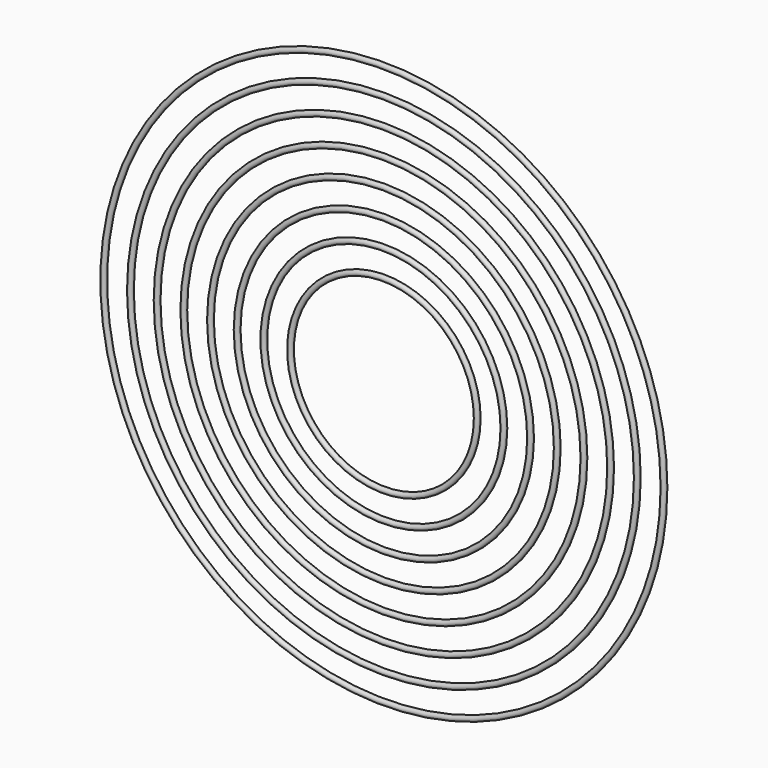
from build123d import *

# Parameters (mm, degrees)
TORUS006_R          = 2.54
TORUS006_ROLL_ANGLE = 90
TORUS005_R          = 2.54
TORUS005_ROLL_ANGLE = 90
TORUS003_R          = 2.54
TORUS003_ROLL_ANGLE = 90
TORUS001_R          = 2.54
TORUS001_ROLL_ANGLE = 90
TORUS_R             = 2.54
TORUS_ROLL_ANGLE    = 90
TORUS002_R          = 2.54
TORUS002_ROLL_ANGLE = 90
TORUS004_R          = 2.54
TORUS004_ROLL_ANGLE = 90
TORUS007_R          = 2.54
TORUS007_ROLL_ANGLE = 90


with BuildPart() as torus006:
    # Torus006 → Torus006 (revolve)
    with BuildSketch(Plane.XZ):
        with Locations((190.5, 0)):
            Circle(TORUS006_R)
    revolve(axis=Axis((0, 0, 0), (0, 0, 1)))


with BuildPart() as torus006_1:
    # Torus006 roll: moved
    add(torus006.part.rotate(Axis((0, 0, 0), (1, 0, 0)), TORUS006_ROLL_ANGLE))


with BuildPart() as torus006_2:
    # Torus006 placement: moved
    add(torus006_1.part)


with BuildPart() as torus005:
    # Torus005 → Torus005 (revolve)
    with BuildSketch(Plane.XZ):
        with Locations((139.7, 0)):
            Circle(TORUS005_R)
    revolve(axis=Axis((0, 0, 0), (0, 0, 1)))


with BuildPart() as torus005_1:
    # Torus005 roll: moved
    add(torus005.part.rotate(Axis((0, 0, 0), (1, 0, 0)), TORUS005_ROLL_ANGLE))


with BuildPart() as torus005_2:
    # Torus005 placement: moved
    add(torus005_1.part)


with BuildPart() as torus003:
    # Torus003 → Torus003 (revolve)
    with BuildSketch(Plane.XZ):
        with Locations((165.1, 0)):
            Circle(TORUS003_R)
    revolve(axis=Axis((0, 0, 0), (0, 0, 1)))


with BuildPart() as torus003_1:
    # Torus003 roll: moved
    add(torus003.part.rotate(Axis((0, 0, 0), (1, 0, 0)), TORUS003_ROLL_ANGLE))


with BuildPart() as torus003_2:
    # Torus003 placement: moved
    add(torus003_1.part)


with BuildPart() as torus001:
    # Torus001 → Torus001 (revolve)
    with BuildSketch(Plane.XZ):
        with Locations((241.3, 0)):
            Circle(TORUS001_R)
    revolve(axis=Axis((0, 0, 0), (0, 0, 1)))


with BuildPart() as torus001_1:
    # Torus001 roll: moved
    add(torus001.part.rotate(Axis((0, 0, 0), (1, 0, 0)), TORUS001_ROLL_ANGLE))


with BuildPart() as torus001_2:
    # Torus001 placement: moved
    add(torus001_1.part)


with BuildPart() as torus:
    # Torus → Torus (revolve)
    with BuildSketch(Plane.XZ):
        with Locations((266.7, 0)):
            Circle(TORUS_R)
    revolve(axis=Axis((0, 0, 0), (0, 0, 1)))


with BuildPart() as torus_1:
    # Torus roll: moved
    add(torus.part.rotate(Axis((0, 0, 0), (1, 0, 0)), TORUS_ROLL_ANGLE))


with BuildPart() as torus_2:
    # Torus placement: moved
    add(torus_1.part)


with BuildPart() as torus002:
    # Torus002 → Torus002 (revolve)
    with BuildSketch(Plane.XZ):
        with Locations((215.9, 0)):
            Circle(TORUS002_R)
    revolve(axis=Axis((0, 0, 0), (0, 0, 1)))


with BuildPart() as torus002_1:
    # Torus002 roll: moved
    add(torus002.part.rotate(Axis((0, 0, 0), (1, 0, 0)), TORUS002_ROLL_ANGLE))


with BuildPart() as torus002_2:
    # Torus002 placement: moved
    add(torus002_1.part)


with BuildPart() as torus004:
    # Torus004 → Torus004 (revolve)
    with BuildSketch(Plane.XZ):
        with Locations((114.3, 0)):
            Circle(TORUS004_R)
    revolve(axis=Axis((0, 0, 0), (0, 0, 1)))


with BuildPart() as torus004_1:
    # Torus004 roll: moved
    add(torus004.part.rotate(Axis((0, 0, 0), (1, 0, 0)), TORUS004_ROLL_ANGLE))


with BuildPart() as torus004_2:
    # Torus004 placement: moved
    add(torus004_1.part)


with BuildPart() as grid:
    # Torus007 → Torus007 (revolve)
    with BuildSketch(Plane.XZ):
        with Locations((88.9, 0)):
            Circle(TORUS007_R)
    revolve(axis=Axis((0, 0, 0), (0, 0, 1)))


with BuildPart() as grid_1:
    # Torus007 roll: moved
    add(grid.part.rotate(Axis((0, 0, 0), (1, 0, 0)), TORUS007_ROLL_ANGLE))


with BuildPart() as grid_2:
    # Torus007 placement: moved
    add(grid_1.part)

    # Fusion: union Torus006, Torus005, Torus003, Torus001, Torus, Torus002, Torus004
    add(torus006_2.part)
    add(torus005_2.part)
    add(torus003_2.part)
    add(torus001_2.part)
    add(torus_2.part)
    add(torus002_2.part)
    add(torus004_2.part)


solid = grid_2.part
